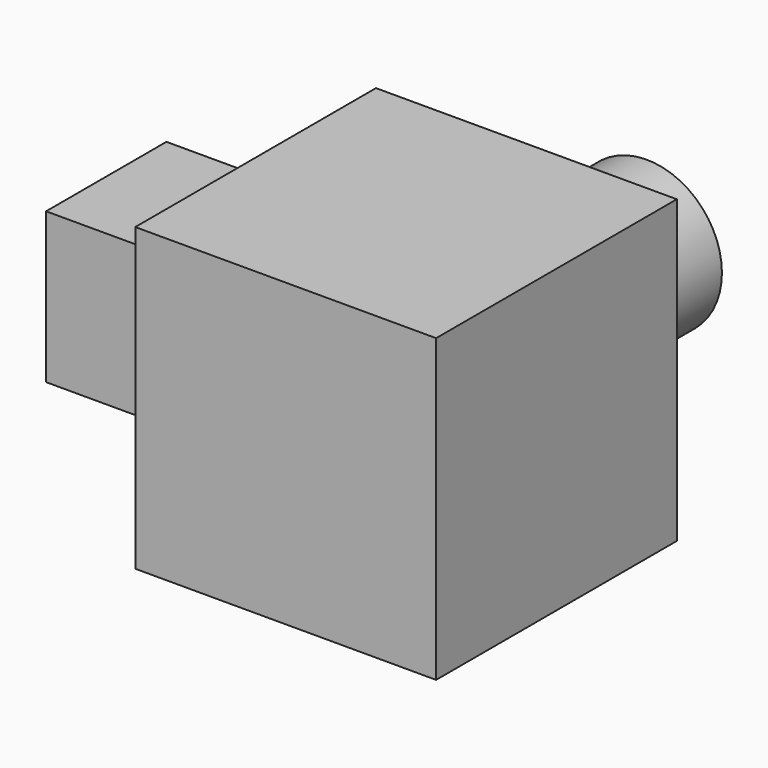
from build123d import *

# Parameters (mm, degrees)
F0_W     = 50.8
F0_H     = 50.8
F1_DEPTH = 50.8
F2_R     = 12.7
F3_DEPTH = 25.4
F4_W     = 25.4
F4_H     = 25.4
F5_DEPTH = 25.4


with BuildPart() as f1:
    # F0 (on Front) → F1 (new body)
    with BuildSketch(Plane.XZ):
        with Locations((19.548205, 25.4)):
            Rectangle(F0_W, F0_H)
    extrude(amount=F1_DEPTH)

    # F2 (on Front) → F3 (join)
    with BuildSketch(Plane.XZ):
        with Locations((19.548205, 25.4)):
            Circle(F2_R)
    extrude(amount=-F3_DEPTH)

    # F4 (on face) → F5 (join)
    with BuildSketch(Plane(origin=(-5.851795, 0, 0), x_dir=(0, -1, 0), z_dir=(-1, 0, 0))):
        with Locations((25.175295, 26.925846)):
            Rectangle(F4_W, F4_H)
    extrude(amount=F5_DEPTH)


solid = f1.part
